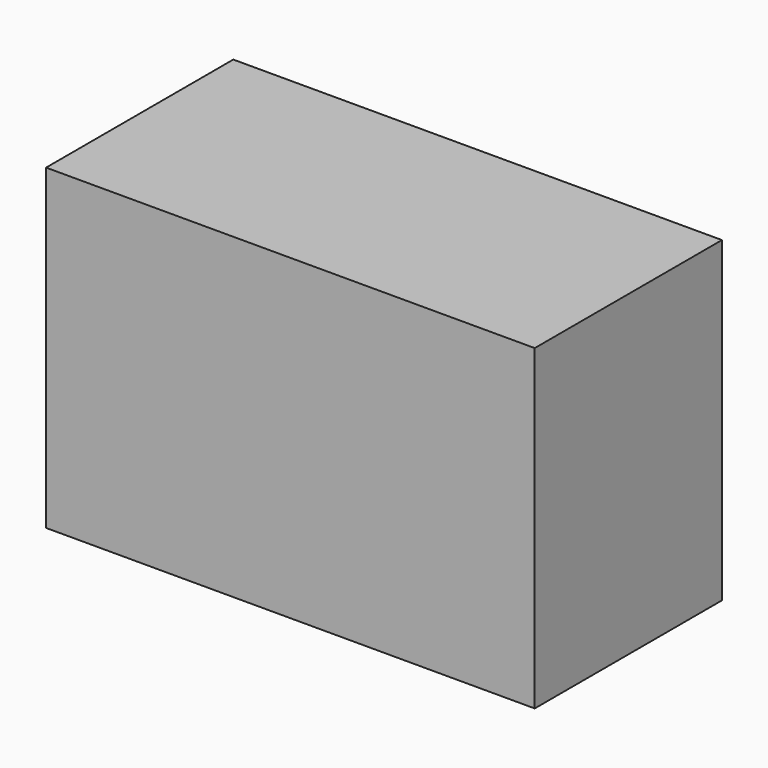
from build123d import *

# Parameters (mm, degrees)
F0_W     = 41.85
F0_H     = 27.17
F1_DEPTH = 20.04
F2_W     = 5.94
F2_H     = 12.76
F3_DEPTH = 11.92


with BuildPart() as f1:
    # F0 (on Front) → F1 (new body)
    with BuildSketch(Plane.XZ):
        Rectangle(F0_W, F0_H)
    extrude(amount=-F1_DEPTH)

    # F2 (on face) → F3 (join)
    with BuildSketch(Plane.YZ.offset(20.925)):
        with Locations((10.173328, -7.205)):
            Rectangle(F2_W, F2_H)
    extrude(amount=-F3_DEPTH)


solid = f1.part
